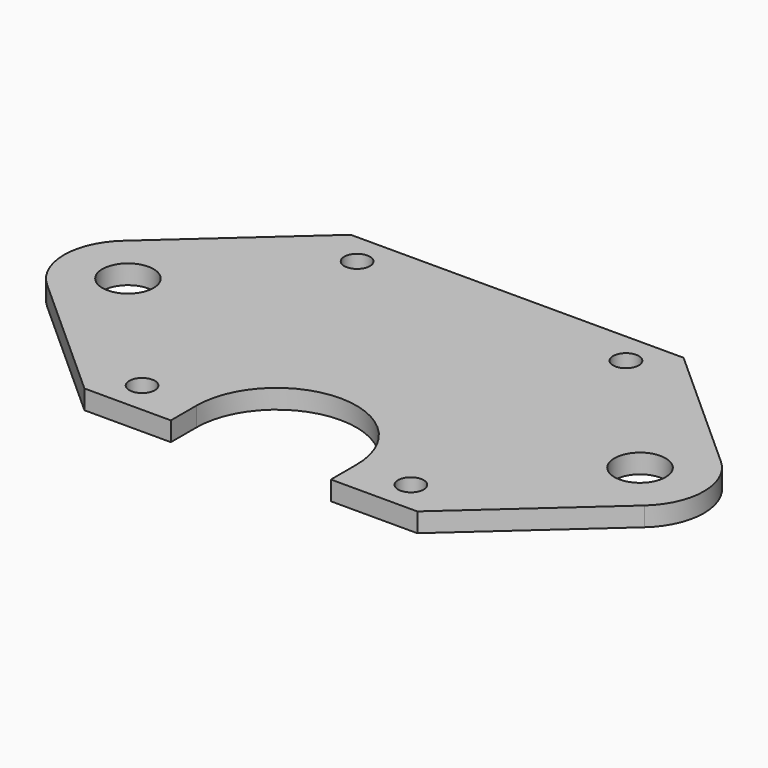
from build123d import *

# Parameters (mm, degrees)
F0_R     = 2
F0_R_2   = 1
F1_DEPTH = 1.5


with BuildPart() as f1:
    # F0 (on Top) → F1 (new body)
    with BuildSketch(Plane.XY):
        with BuildLine():
            Line((-13, -13), (-13, 13))
            Line((-13, 13), (-23.3394901803, 3.7212639433))
            ThreePointArc((-23.3394901803, 3.7212639433), (-25, 0), (-23.3394901803, -3.7212639433))
            Line((-23.3394901803, -3.7212639433), (-13, -13))
        make_face()
        with Locations((-20, 0)):
            Circle(F0_R, mode=Mode.SUBTRACT)
        with BuildLine():
            Line((23.3394901803, 3.7212639433), (13, 13))
            Line((13, 13), (13, -13))
            Line((13, -13), (23.3394901803, -3.7212639433))
            ThreePointArc((23.3394901803, -3.7212639433), (25, 0), (23.3394901803, 3.7212639433))
        make_face()
        with Locations((20, 0)):
            Circle(F0_R, mode=Mode.SUBTRACT)
        with BuildLine():
            Line((-5.7282196187, 13), (-13, 13))
            Line((-13, 13), (-13, -13))
            Line((-13, -13), (-6.25, -13))
            Line((-6.25, -13), (-6.25, -10.5))
            ThreePointArc((-6.25, -10.5), (0, -4.25), (6.25, -10.5))
            Line((6.25, -10.5), (6.25, -13))
            Line((6.25, -13), (13, -13))
            Line((13, -13), (13, 13))
            Line((13, 13), (5.7282196187, 13))
            ThreePointArc((5.7282196187, 13), (6.1181644558, 11.7769352731), (6.25, 10.5))
            ThreePointArc((6.25, 10.5), (-1.2769352731, 4.3818355442), (-5.7282196187, 13))
        make_face()
        with Locations((-10.5, -10.5)):
            Circle(F0_R_2, mode=Mode.SUBTRACT)
        with Locations((10.5, -10.5)):
            Circle(F0_R_2, mode=Mode.SUBTRACT)
        with Locations((-10.5, 10.5)):
            Circle(F0_R_2, mode=Mode.SUBTRACT)
        with Locations((10.5, 10.5)):
            Circle(F0_R_2, mode=Mode.SUBTRACT)
        with BuildLine():
            Line((5.7282196187, 13), (-5.7282196187, 13))
            ThreePointArc((-5.7282196187, 13), (-1.2769352731, 4.3818355442), (6.25, 10.5))
            ThreePointArc((6.25, 10.5), (6.1181644558, 11.7769352731), (5.7282196187, 13))
        make_face()
    extrude(amount=F1_DEPTH)


solid = f1.part
